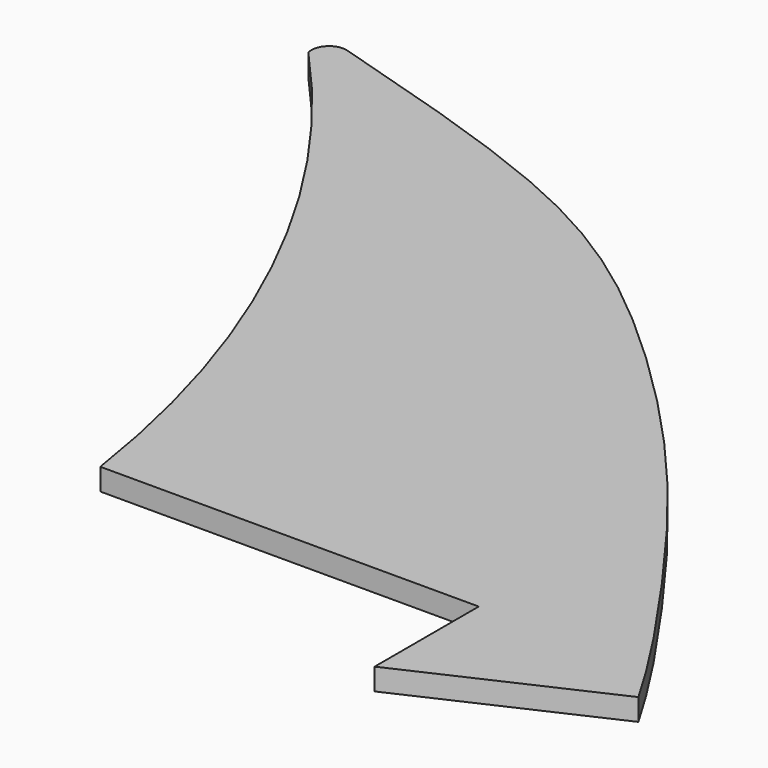
from build123d import *

# Parameters (mm, degrees)
F1_DEPTH = 1.524


with BuildPart() as f1:
    # F0 (on Top) → F1 (new body)
    with BuildSketch(Plane.XY):
        with BuildLine():
            ThreePointArc((-97.2258299589, 60.8202330768), (-82.9872488984, 39.829094848), (-75.5499005318, 15.5793335289))
            Line((-75.5499005318, 15.5793335289), (-49.1448193789, 15.5793335289))
            Line((-49.1448193789, 15.5793335289), (-49.1448193789, 6.5000920648))
            Line((-49.1448193789, 6.5000920648), (-35.6766283512, 12.6677714288))
            add(Edge.make_bspline(
                [(-95.7092195749, 62.3368434608), (-88.6984934666, 60.2423114362), (-75.8809330839, 56.4129233978), (-64.1870043706, 48.1666141535), (-53.3446464842, 37.371991769), (-45.9599085979, 28.1882061692), (-38.4807479947, 17.4534181584), (-36.4666990508, 14.0161444444), (-35.6766283512, 12.6677714288)],
                knots=[0, 0, 0, 0, 0.2109967553, 0.3857608485, 0.5641977633, 0.7273023354, 0.893026217, 1, 1, 1, 1], degree=3))
            ThreePointArc((-95.7092195749, 62.3368434608), (-96.9226129192, 62.0336264211), (-97.2258299589, 60.8202330768))
        make_face()
    extrude(amount=F1_DEPTH)


solid = f1.part
